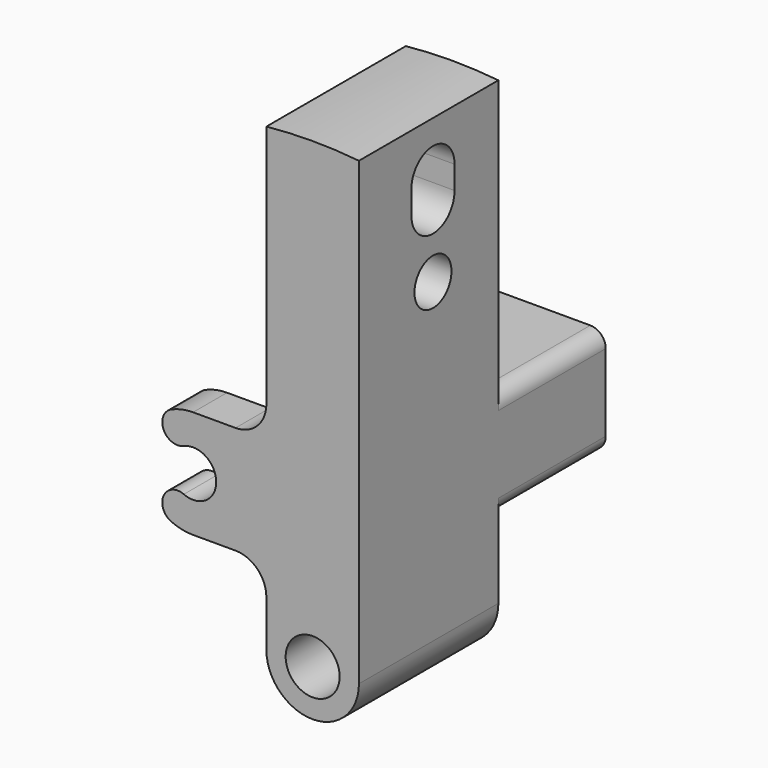
from build123d import *

# Parameters (mm, degrees)
SKETCH004_R          = 1.75
PAD001_DEPTH         = 20
POCKET001_DEPTH      = 9.751
POCKET001_DEPTH_BACK = 3.001
SKETCH008_R          = 1.5
POCKET003_DEPTH      = 9.751
POCKET003_DEPTH_BACK = 3.001
FILLET_R             = 1


with BuildPart() as part:
    # Sketch004 → Pad001 (new body)
    with BuildSketch(Plane.XZ.offset(7.5)):
        with BuildLine():
            Line((-3, 0), (-3, 3))
            ThreePointArc((-3, 3), (-3.585786, 4.414214), (-5, 5))
            Line((-5, 5), (-7.75, 5))
            ThreePointArc((-9.15, 5.292197), (-8.465084, 5.073828), (-7.75, 5))
            ThreePointArc((-8.35, 7.125227), (-9.666515, 6.608712), (-9.15, 5.292197))
            ThreePointArc((-8.35, 7.125227), (-6.25, 8.5), (-8.35, 9.874773))
            ThreePointArc((-9.15, 11.707803), (-9.666515, 10.391288), (-8.35, 9.874773))
            ThreePointArc((-7.75, 12), (-8.465084, 11.926172), (-9.15, 11.707803))
            Line((-7.75, 12), (-5, 12))
            ThreePointArc((-5, 12), (-3.585786, 12.585786), (-3, 14))
            Line((-3, 29.849623), (-3, 14))
            ThreePointArc((3, 29.849623), (0, 30), (-3, 29.849623))
            Line((3, 0), (3, 29.849623))
            ThreePointArc((-3, 0), (0, -3), (3, 0))
        make_face()
        Circle(SKETCH004_R, mode=Mode.SUBTRACT)
    extrude(amount=PAD001_DEPTH)

    # Sketch005 → Groove (revolve, cut)
    with BuildSketch(Plane(origin=(-7.75, 0, 8.5), x_dir=(1, 0, 0), z_dir=(0, 0, 1))):
        Polygon((0, -10.25), (5, -10.25), (5, -19.75), (6, -19.75), (6, -24.75), (0, -24.75), align=None)
    revolve(axis=Axis((-7.75, 0, 8.5), (0, 1, 0)), mode=Mode.SUBTRACT)

    # Sketch006 → Pocket001 (cut, two sides)
    with BuildSketch(Plane.YZ) as pocket001_sk:
        Polygon((-16.2, 36), (0, 36), (0, -6), (-16.2, -6), (-16.2, 5), (-7.5, 5), (-7.5, 12), (-16.2, 12), align=None)
    extrude(amount=-POCKET001_DEPTH, mode=Mode.SUBTRACT)
    extrude(pocket001_sk.sketch, amount=POCKET001_DEPTH_BACK, mode=Mode.SUBTRACT)

    # Sketch008 → Pocket003 (cut, two sides)
    with BuildSketch(Plane.YZ) as pocket003_sk:
        with Locations((-21.5, 20.5)):
            Circle(SKETCH008_R)
        with BuildLine():
            ThreePointArc((-19.75, 26.5), (-21.5, 28.25), (-23.25, 26.5))
            Line((-23.25, 26.5), (-23.25, 25))
            ThreePointArc((-23.25, 25), (-21.5, 23.25), (-19.75, 25))
            Line((-19.75, 26.5), (-19.75, 25))
        make_face()
    extrude(amount=-POCKET003_DEPTH, mode=Mode.SUBTRACT)
    extrude(pocket003_sk.sketch, amount=POCKET003_DEPTH_BACK, mode=Mode.SUBTRACT)

    # Fillet
    fillet_edges = [part.edges().sort_by_distance(p)[0] for p in [
        (3, -11.85, 12),
        (3, -11.85, 5),
    ]]
    fillet(fillet_edges, radius=FILLET_R)


with BuildPart() as part_1:
    # Body002 placement: moved
    add(part.part.moved(Location((12, 0, 6))))


solid = part_1.part
